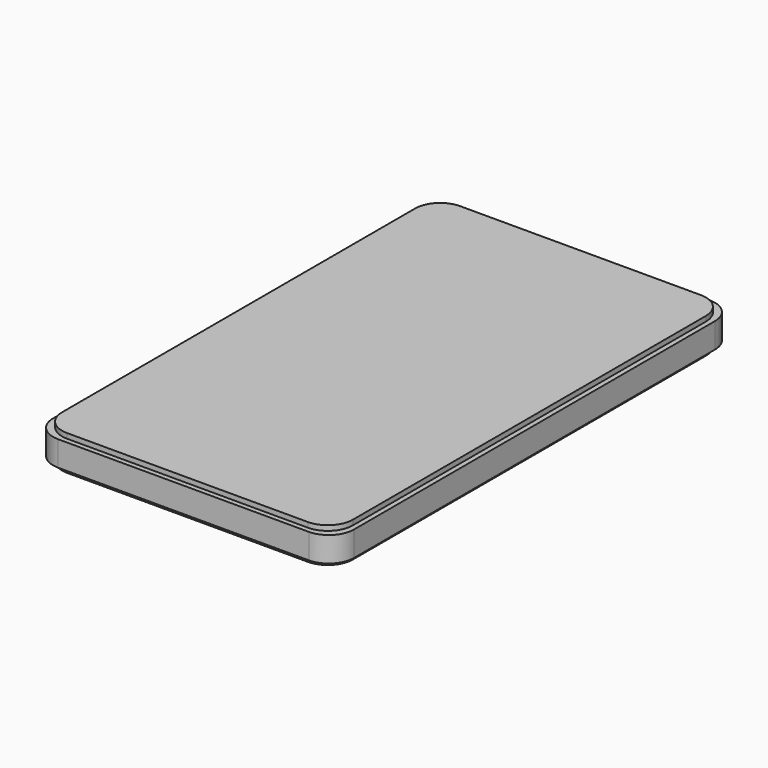
from build123d import *

# Parameters (mm, degrees)
F1_DEPTH = 1
F2_DEPTH = 5
F3_DEPTH = 7


with BuildPart() as f1:
    # F0 (on Top) → F1 (new body)
    with BuildSketch(Plane.XY):
        with BuildLine():
            Line((-29, 44), (-29, 0))
            Line((-29, 0), (-29, -44))
            ThreePointArc((-29, -44), (-27.535534, -47.535534), (-24, -49))
            Line((-24, -49), (0, -49))
            Line((0, -49), (24, -49))
            ThreePointArc((24, -49), (27.535534, -47.535534), (29, -44))
            Line((29, -44), (29, 0))
            Line((29, 0), (29, 44))
            ThreePointArc((29, 44), (27.535534, 47.535534), (24, 49))
            Line((24, 49), (0, 49))
            Line((0, 49), (-24, 49))
            ThreePointArc((-24, 49), (-27.535534, 47.535534), (-29, 44))
        make_face()
    extrude(amount=F1_DEPTH)

    # F0 (on Top) → F2 (join)
    with BuildSketch(Plane.XY):
        with BuildLine():
            Line((-30, 45), (-30, 0))
            Line((-30, 0), (-30, -45))
            ThreePointArc((-30, -45), (-28.535534, -48.535534), (-25, -50))
            Line((-25, -50), (25, -50))
            ThreePointArc((25, -50), (28.535534, -48.535534), (30, -45))
            Line((30, -45), (30, 0))
            Line((30, 0), (30, 45))
            ThreePointArc((30, 45), (28.535534, 48.535534), (25, 50))
            Line((25, 50), (-25, 50))
            ThreePointArc((-25, 50), (-28.535534, 48.535534), (-30, 45))
        make_face()
        with BuildLine():
            Line((-29, -44), (-29, 0))
            Line((-29, 0), (-29, 44))
            ThreePointArc((-29, 44), (-27.535534, 47.535534), (-24, 49))
            Line((-24, 49), (0, 49))
            Line((0, 49), (24, 49))
            ThreePointArc((24, 49), (27.535534, 47.535534), (29, 44))
            Line((29, 44), (29, 0))
            Line((29, 0), (29, -44))
            ThreePointArc((29, -44), (27.535534, -47.535534), (24, -49))
            Line((24, -49), (0, -49))
            Line((0, -49), (-24, -49))
            ThreePointArc((-24, -49), (-27.535534, -47.535534), (-29, -44))
        make_face(mode=Mode.SUBTRACT)
        with BuildLine():
            Line((-29, 44), (-29, 0))
            Line((-29, 0), (-29, -44))
            ThreePointArc((-29, -44), (-27.535534, -47.535534), (-24, -49))
            Line((-24, -49), (0, -49))
            Line((0, -49), (24, -49))
            ThreePointArc((24, -49), (27.535534, -47.535534), (29, -44))
            Line((29, -44), (29, 0))
            Line((29, 0), (29, 44))
            ThreePointArc((29, 44), (27.535534, 47.535534), (24, 49))
            Line((24, 49), (0, 49))
            Line((0, 49), (-24, 49))
            ThreePointArc((-24, 49), (-27.535534, 47.535534), (-29, 44))
        make_face()
    extrude(amount=-F2_DEPTH)

    # F1_face (on face) → F3 (join)
    with BuildSketch(Plane.XY.offset(1)):
        with BuildLine():
            Line((-29, 44), (-29, -44))
            ThreePointArc((-29, -44), (-27.535534, -47.535534), (-24, -49))
            Line((-24, -49), (24, -49))
            ThreePointArc((24, -49), (27.535534, -47.535534), (29, -44))
            Line((29, -44), (29, 44))
            ThreePointArc((29, 44), (27.535534, 47.535534), (24, 49))
            Line((24, 49), (-24, 49))
            ThreePointArc((-24, 49), (-27.535534, 47.535534), (-29, 44))
        make_face()
    extrude(amount=-F3_DEPTH)


solid = f1.part
